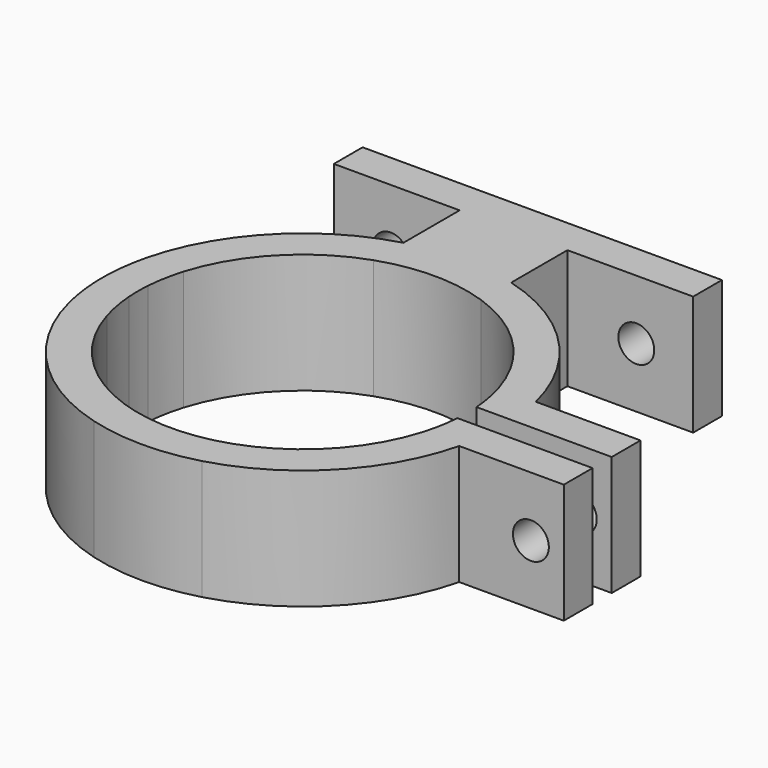
from build123d import *

# Parameters (mm, degrees)
F0_W     = 9
F0_H     = 1.5
F1_DEPTH = 10
F3_R     = 1.5
F4_DEPTH = 3
F5_DEPTH = 41.751


with BuildPart() as f1:
    # F0 (on Top) → F1 (new body)
    with BuildSketch(Plane.XY):
        Polygon((4.5, 23.5), (4.5, 22), (15, 22), (15, 25), (-15, 25), (-15, 22), (-4.5, 22), (-4.5, 23.5), align=None)
        with Locations((0, 22.75)):
            Rectangle(F0_W, F0_H)
        with BuildLine():
            ThreePointArc((-4.5, 16.1342028003), (0, 16.75), (4.5, 16.1342028003))
            Line((4.5, 16.1342028003), (4.5, 22))
            Line((4.5, 22), (-4.5, 22))
            Line((-4.5, 22), (-4.5, 16.1342028003))
        make_face()
        with BuildLine():
            ThreePointArc((-4.5, 12.9927864602), (0, 13.75), (4.5, 12.9927864602))
            Line((4.5, 12.9927864602), (4.5, 16.1342028003))
            ThreePointArc((4.5, 16.1342028003), (0, 16.75), (-4.5, 16.1342028003))
            Line((-4.5, 16.1342028003), (-4.5, 12.9927864602))
        make_face()
        with BuildLine():
            ThreePointArc((4.5, 12.9927864602), (9.9068234991, 9.5350588964), (13.1553221169, 4))
            Line((13.1553221169, 4), (16.2653773396, 4))
            ThreePointArc((16.2653773396, 4), (12.0253874538, 11.6598694927), (4.5, 16.1342028003))
            Line((4.5, 16.1342028003), (4.5, 12.9927864602))
        make_face()
        with BuildLine():
            ThreePointArc((-13.1553221169, 4), (-9.9068234991, 9.5350588964), (-4.5, 12.9927864602))
            Line((-4.5, 12.9927864602), (-4.5, 16.1342028003))
            ThreePointArc((-4.5, 16.1342028003), (-12.0253874538, 11.6598694927), (-16.2653773396, 4))
            Line((-16.2653773396, 4), (-13.1553221169, 4))
        make_face()
        with BuildLine():
            ThreePointArc((13.1553221169, 4), (13.5179356693, 2.5155347824), (13.7135881519, 1))
            Line((13.7135881519, 1), (16.7201226072, 1))
            ThreePointArc((16.7201226072, 1), (16.5608212866, 2.5103183692), (16.2653773396, 4))
            Line((16.2653773396, 4), (13.1553221169, 4))
        make_face()
        with BuildLine():
            ThreePointArc((16.2653773396, 4), (16.5608212866, 2.5103183692), (16.7201226072, 1))
            Line((16.7201226072, 1), (25, 1))
            Line((25, 1), (25, 4))
            Line((25, 4), (16.2653773396, 4))
        make_face()
        with BuildLine():
            Line((25, -1), (16.7201226072, -1))
            ThreePointArc((16.7201226072, -1), (16.5608212866, -2.5103183692), (16.2653773396, -4))
            Line((16.2653773396, -4), (25, -4))
            Line((25, -4), (25, -1))
        make_face()
        with BuildLine():
            Line((16.7201226072, -1), (13.7135881519, -1))
            ThreePointArc((13.7135881519, -1), (13.5179356693, -2.5155347824), (13.1553221169, -4))
            Line((13.1553221169, -4), (16.2653773396, -4))
            ThreePointArc((16.2653773396, -4), (16.5608212866, -2.5103183692), (16.7201226072, -1))
        make_face()
        with BuildLine():
            Line((16.2653773396, -4), (13.1553221169, -4))
            ThreePointArc((13.1553221169, -4), (9.9068234991, -9.5350588964), (4.5, -12.9927864602))
            Line((4.5, -12.9927864602), (4.5, -16.1342028003))
            ThreePointArc((4.5, -16.1342028003), (12.0253874538, -11.6598694927), (16.2653773396, -4))
        make_face()
        with BuildLine():
            Line((-4.5, -16.1342028003), (-4.5, -12.9927864602))
            ThreePointArc((-4.5, -12.9927864602), (-9.9068234991, -9.5350588964), (-13.1553221169, -4))
            Line((-13.1553221169, -4), (-16.2653773396, -4))
            ThreePointArc((-16.2653773396, -4), (-12.0253874538, -11.6598694927), (-4.5, -16.1342028003))
        make_face()
        with BuildLine():
            ThreePointArc((-13.1553221169, -4), (-13.5179356693, -2.5155347824), (-13.7135881519, -1))
            Line((-13.7135881519, -1), (-16.7201226072, -1))
            ThreePointArc((-16.7201226072, -1), (-16.5608212866, -2.5103183692), (-16.2653773396, -4))
            Line((-16.2653773396, -4), (-13.1553221169, -4))
        make_face()
        with BuildLine():
            ThreePointArc((-13.7135881519, -1), (-13.75, 0), (-13.7135881519, 1))
            Line((-13.7135881519, 1), (-16.7201226072, 1))
            ThreePointArc((-16.7201226072, 1), (-16.75, 0), (-16.7201226072, -1))
            Line((-16.7201226072, -1), (-13.7135881519, -1))
        make_face()
        with BuildLine():
            Line((-16.7201226072, 1), (-13.7135881519, 1))
            ThreePointArc((-13.7135881519, 1), (-13.5179356693, 2.5155347824), (-13.1553221169, 4))
            Line((-13.1553221169, 4), (-16.2653773396, 4))
            ThreePointArc((-16.2653773396, 4), (-16.5608212866, 2.5103183692), (-16.7201226072, 1))
        make_face()
        with BuildLine():
            Line((4.5, -16.1342028003), (4.5, -12.9927864602))
            ThreePointArc((4.5, -12.9927864602), (0, -13.75), (-4.5, -12.9927864602))
            Line((-4.5, -12.9927864602), (-4.5, -16.1342028003))
            ThreePointArc((-4.5, -16.1342028003), (0, -16.75), (4.5, -16.1342028003))
        make_face()
    extrude(amount=F1_DEPTH)

    # F3 (on offset) → F4 (cut, through all)
    with BuildSketch(Plane(origin=(0, 25, 0), x_dir=(-1, 0, 0), z_dir=(0, 1, 0))):
        with Locations((-10.25, 5)):
            Circle(F3_R)
        with Locations((10.25, 5)):
            Circle(F3_R)
        with Locations((-22.25, 5)):
            Circle(F3_R)
    extrude(amount=-F4_DEPTH, mode=Mode.SUBTRACT)

    # F3 (on offset) → F5 (cut, through all)
    with BuildSketch(Plane(origin=(0, 25, 0), x_dir=(-1, 0, 0), z_dir=(0, 1, 0))):
        with Locations((-22.25, 5)):
            Circle(F3_R)
    extrude(amount=-F5_DEPTH, mode=Mode.SUBTRACT)


solid = f1.part
